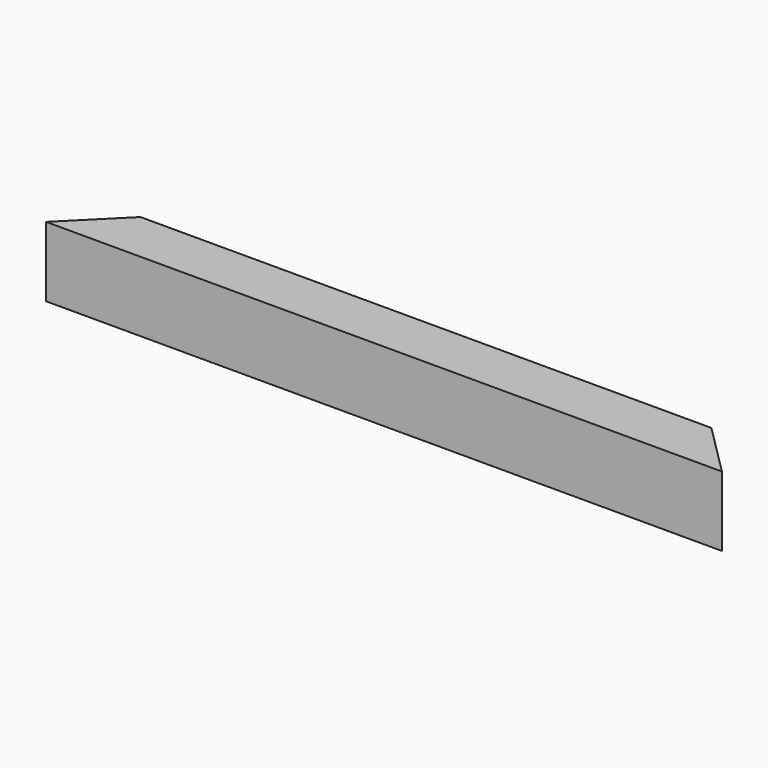
from build123d import *

# Parameters (mm, degrees)
EXTRUDE_DEPTH = 48


with BuildPart() as part:
    # Sketch001 → Extrude (new body)
    with BuildSketch(Plane.XY):
        Polygon((0, 0), (36, 36), (427.862048, 36), (463.862048, 0), align=None)
    extrude(amount=EXTRUDE_DEPTH)


solid = part.part
